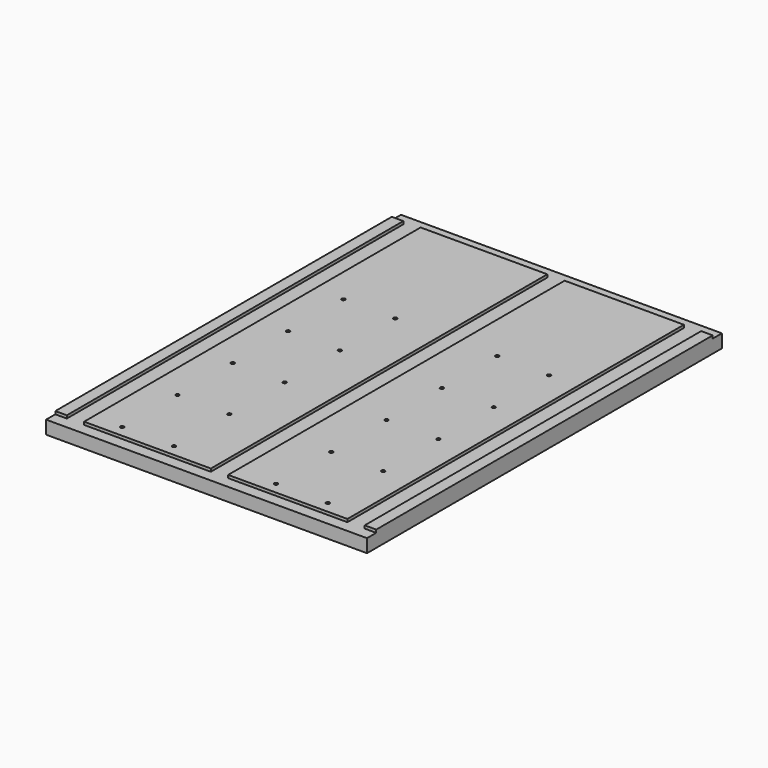
from build123d import *

# Parameters (mm, degrees)
SKETCH_W        = 557
SKETCH_H        = 770
PAD_DEPTH       = 28
SKETCH001_W     = 220
SKETCH001_H     = 730
SKETCH001_W_2   = 207
POCKET_DEPTH    = 5
SKETCH002_R     = 3
POCKET001_DEPTH = 20


with BuildPart() as part:
    # Sketch → Pad (new body)
    with BuildSketch(Plane.XY):
        with Locations((278.5, 385)):
            Rectangle(SKETCH_W, SKETCH_H)
    extrude(amount=PAD_DEPTH)

    # Sketch001 (on Face6 of Pad) → Pocket (cut)
    with BuildSketch(Plane.XY.offset(28)):
        Polygon((0, 770), (557, 770), (557, 750), (537, 750), (537, 20), (557, 20), (557, 0), (0, 0), (0, 20), (20, 20), (20, 750), (0, 750), align=None)
        with Locations((160, 385)):
            Rectangle(SKETCH001_W, SKETCH001_H, mode=Mode.SUBTRACT)
        with Locations((403.5, 385)):
            Rectangle(SKETCH001_W_2, SKETCH001_H, mode=Mode.SUBTRACT)
    extrude(amount=-POCKET_DEPTH, mode=Mode.SUBTRACT)

    # Sketch002 (on Face6 of Pad) → Pocket001 (cut)
    with BuildSketch(Plane.XY.offset(28)):
        with Locations((100, 40)):
            Circle(SKETCH002_R)
        with Locations((190, 40)):
            Circle(SKETCH002_R)
        with Locations((367, 40)):
            Circle(SKETCH002_R)
        with Locations((457, 40)):
            Circle(SKETCH002_R)
        with Locations((100, 160)):
            Circle(SKETCH002_R)
        with Locations((190, 160)):
            Circle(SKETCH002_R)
        with Locations((367, 160)):
            Circle(SKETCH002_R)
        with Locations((457, 160)):
            Circle(SKETCH002_R)
        with Locations((100, 280)):
            Circle(SKETCH002_R)
        with Locations((190, 280)):
            Circle(SKETCH002_R)
        with Locations((367, 280)):
            Circle(SKETCH002_R)
        with Locations((457, 280)):
            Circle(SKETCH002_R)
        with Locations((100, 400)):
            Circle(SKETCH002_R)
        with Locations((190, 400)):
            Circle(SKETCH002_R)
        with Locations((367, 400)):
            Circle(SKETCH002_R)
        with Locations((457, 400)):
            Circle(SKETCH002_R)
        with Locations((100, 520)):
            Circle(SKETCH002_R)
        with Locations((190, 520)):
            Circle(SKETCH002_R)
        with Locations((367, 520)):
            Circle(SKETCH002_R)
        with Locations((457, 520)):
            Circle(SKETCH002_R)
    extrude(amount=-POCKET001_DEPTH, mode=Mode.SUBTRACT)


solid = part.part
